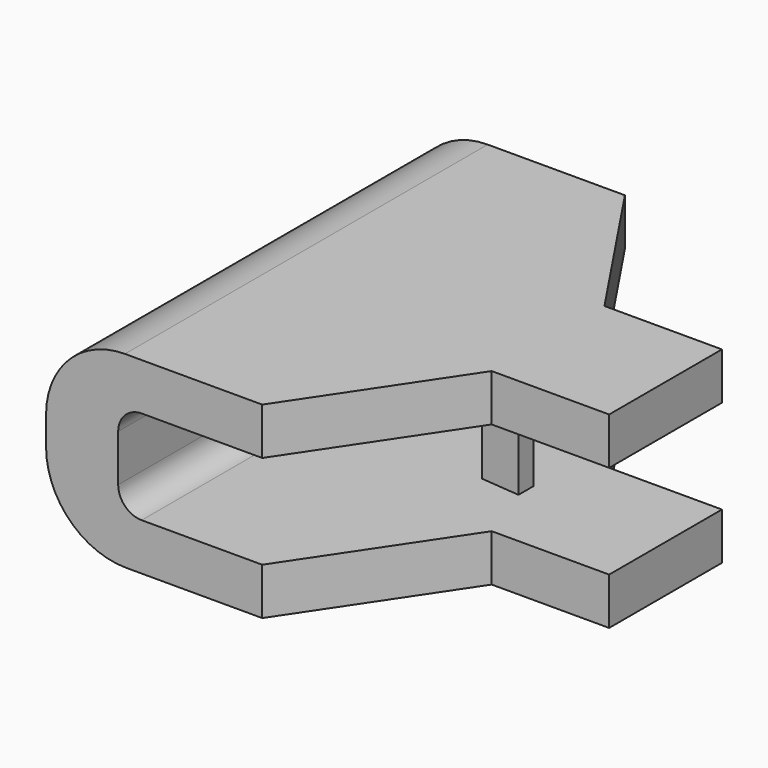
from build123d import *

# Parameters (mm, degrees)
F1_DEPTH = 50.8
F2_R     = 21.706798
F3_R     = 21.320862
F5_DEPTH = 157.70323
F7_DEPTH = 29.04742


with BuildPart() as f1:
    # F0 (on Top) → F1 (new body)
    with BuildSketch(Plane.XY):
        Polygon((68.056519, -16.868673), (68.056519, 21.231327), (36.306519, 21.231327), (8.058664, 63.453343), (-50.361336, 63.453343), (-50.361336, -59.09069), (8.058664, -59.09069), (36.306519, -16.868673), align=None)
    extrude(amount=F1_DEPTH)

    # F2
    f2_edges = [f1.edges().sort_by_distance(p)[0] for p in [
        (-50.361336, 2.181327, 0),
    ]]
    fillet(f2_edges, radius=F2_R)

    # F3
    f3_edges = [f1.edges().sort_by_distance(p)[0] for p in [
        (-50.361336, 2.181327, 50.8),
    ]]
    fillet(f3_edges, radius=F3_R)

    # F4 (on face) → F5 (cut)
    with BuildSketch(Plane.XZ.offset(59.09069)):
        with BuildLine():
            Line((99.388748, 38.1), (8.058664, 38.1))
            Line((8.058664, 38.1), (-24.523535, 38.1))
            ThreePointArc((-24.523535, 38.1), (-29.013663, 36.240128), (-30.873535, 31.75))
            Line((-30.873535, 31.75), (-30.873535, 19.05))
            ThreePointArc((-30.873535, 19.05), (-29.013663, 14.559872), (-24.523535, 12.7))
            Line((-24.523535, 12.7), (8.058664, 12.7))
            Line((8.058664, 12.7), (99.388748, 12.7))
            Line((99.388748, 12.7), (99.388748, 38.1))
        make_face()
        with BuildLine():
            Line((8.058664, 12.7), (8.058664, 38.1))
            Line((8.058664, 38.1), (-24.523535, 38.1))
            ThreePointArc((-24.523535, 38.1), (-29.013663, 36.240128), (-30.873535, 31.75))
            Line((-30.873535, 31.75), (-30.873535, 19.05))
            ThreePointArc((-30.873535, 19.05), (-29.013663, 14.559872), (-24.523535, 12.7))
            Line((-24.523535, 12.7), (8.058664, 12.7))
        make_face()
    extrude(amount=-F5_DEPTH, mode=Mode.SUBTRACT)

    # F6 (on face) → F7 (join)
    with BuildSketch(Plane.XY.offset(12.7)):
        Polygon((19.727962, 4.946723), (19.727962, 0.592731), (30.337321, -0.358673), (30.337321, 4.721327), align=None)
    extrude(amount=F7_DEPTH)


solid = f1.part
